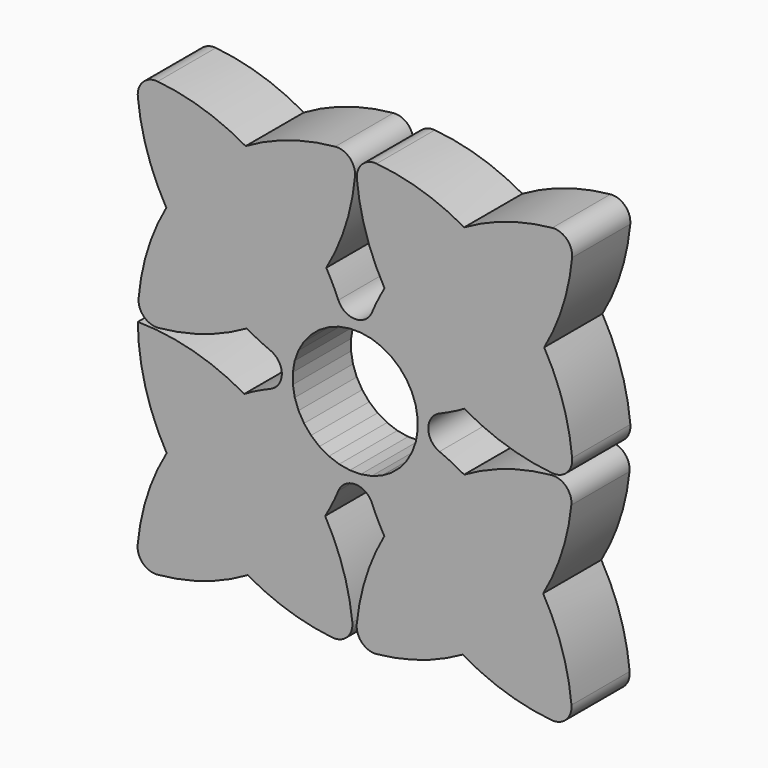
from build123d import *

# Parameters (mm, degrees)
F1_DEPTH = 25.4


with BuildPart() as f1:
    # F0 (on Front) → F1 (new body)
    with BuildSketch(Plane.XZ):
        with BuildLine():
            ThreePointArc((-5.8723054883, -29.3974713107), (-0.0113045982, -25.4959433684), (5.8471949357, -29.4012263195))
            ThreePointArc((5.8471949357, -29.4012263195), (7.8665830511, -33.8356885101), (10.1664885318, -38.131362853))
            ThreePointArc((10.1664885318, -38.131362853), (22.2433688947, -22.2960530681), (38.0304113332, -10.1561450647))
            ThreePointArc((38.0304113332, -10.1561450647), (33.7877497726, -7.8805671775), (29.4089474828, -5.8794369107))
            ThreePointArc((29.4089474828, -5.8794369107), (25.5132673299, -0.0171496036), (29.4195896796, 5.8380516761))
            ThreePointArc((29.4195896796, 5.8380516761), (33.8245563846, 7.8420080033), (38.0926920423, 10.1229268184))
            ThreePointArc((38.0926920423, 10.1229268184), (22.3048159694, 22.2586636554), (10.2296361263, 38.0929041244))
            ThreePointArc((10.2296361263, 38.0929041244), (7.8862120567, 33.7206748888), (5.832770092, 29.2049910031))
            ThreePointArc((5.832770092, 29.2049910031), (-0.0278322356, 25.2936581115), (-5.8914533675, 29.2004639491))
            ThreePointArc((-5.8914533675, 29.2004639491), (-7.8681260767, 33.5542655176), (-10.1128070971, 37.7761407186))
            ThreePointArc((-10.1128070971, 37.7761407186), (-22.1909246105, 22.1248469042), (-37.8860679576, 10.1037655868))
            ThreePointArc((-37.8860679576, 10.1037655868), (-33.7659122536, 7.9077693057), (-29.519257568, 5.9676644959))
            ThreePointArc((-29.519257568, 5.9676644959), (-25.6301816612, 0.0965438971), (-29.5513078142, -5.7532200459))
            ThreePointArc((-29.5513078142, -5.7532200459), (-34.2211473212, -7.8745098641), (-38.736597903, -10.3071992315))
            ThreePointArc((-38.736597903, -10.3071992315), (-22.7195783494, -22.5870715801), (-10.5053141935, -38.6541787064))
            ThreePointArc((-10.5053141935, -38.6541787064), (-8.0309058523, -34.1048564095), (-5.8723054883, -29.3974713107))
        make_face()
        Polygon((15.4941124372, -15.4270198163), (12.5798481763, -17.8831731103), (9.2833515942, -19.7959552386), (5.7047850715, -21.1072472842), (1.9528815413, -21.7772063019), (-1.8583593065, -21.7854759259), (-5.613134847, -21.1318048879), (-9.1973581256, -19.8360546515), (-12.5021243317, -17.9375959321), (-15.4270198163, -15.4941124372), (-17.8831731103, -12.5798481763), (-19.7959552386, -9.2833515942), (-21.1072472842, -5.7047850715), (-21.7772063019, -1.9528815413), (-21.7854759259, 1.8583593065), (-21.1318048879, 5.613134847), (-19.8360546515, 9.1973581256), (-17.9375959321, 12.5021243317), (-15.4941124372, 15.4270198163), (-12.5798481763, 17.8831731103), (-9.2833515942, 19.7959552386), (-5.7047850715, 21.1072472842), (-1.9528815413, 21.7772063019), (1.8583593065, 21.7854759259), (5.613134847, 21.1318048879), (9.1973581256, 19.8360546515), (12.5021243317, 17.9375959321), (15.4270198163, 15.4941124372), (17.8831731103, 12.5798481763), (19.7959552386, 9.2833515942), (21.1072472842, 5.7047850715), (21.7772063019, 1.9528815413), (21.7854759259, -1.8583593065), (21.1318048879, -5.613134847), (19.8360546515, -9.1973581256), (17.9375959321, -12.5021243317), align=None, mode=Mode.SUBTRACT)
        with BuildLine():
            ThreePointArc((38.0304113332, -10.1561450647), (22.2433688947, -22.2960530681), (10.1664885318, -38.131362853))
            ThreePointArc((10.1664885318, -38.131362853), (22.0522532258, -53.6697738876), (37.5164127114, -65.6519853381))
            ThreePointArc((37.5164127114, -65.6519853381), (53.4213887804, -53.5472360443), (65.6235914885, -37.7169022421))
            ThreePointArc((65.6235914885, -37.7169022421), (53.6333778688, -22.1280221412), (38.0304113332, -10.1561450647))
        make_face()
        with BuildLine():
            ThreePointArc((37.5164127114, -65.6519853381), (22.0522532258, -53.6697738876), (10.1664885318, -38.131362853))
            ThreePointArc((10.1664885318, -38.131362853), (3.7508996959, -52.7209861968), (0.5304546679, -68.3301381035))
            ThreePointArc((0.5304546679, -68.3301381035), (2.3669091486, -73.4489662261), (7.4915009075, -75.2692754617))
            ThreePointArc((7.4915009075, -75.2692754617), (23.0077646864, -72.0335045543), (37.5164127114, -65.6519853381))
        make_face()
        with BuildLine():
            ThreePointArc((65.6235914885, -37.7169022421), (53.4213887804, -53.5472360443), (37.5164127114, -65.6519853381))
            ThreePointArc((37.5164127114, -65.6519853381), (52.5012422767, -72.3700363612), (68.5807077231, -75.7059196936))
            ThreePointArc((68.5807077231, -75.7059196936), (73.6678671005, -73.8876561642), (75.5140176195, -68.8105505857))
            ThreePointArc((75.5140176195, -68.8105505857), (72.2649671763, -52.7242023626), (65.6235914885, -37.7169022421))
        make_face()
        with BuildLine():
            ThreePointArc((68.5341561345, -0.3654146815), (52.7586923315, -3.6294921253), (38.0304113332, -10.1561450647))
            ThreePointArc((38.0304113332, -10.1561450647), (53.6333778688, -22.1280221412), (65.6235914885, -37.7169022421))
            ThreePointArc((65.6235914885, -37.7169022421), (72.1596460359, -23.0463732384), (75.4693013087, -7.3304382592))
            ThreePointArc((75.4693013087, -7.3304382592), (73.6519305037, -2.2048036873), (68.5341561345, -0.3654146815))
        make_face()
        with BuildLine():
            ThreePointArc((-1.0124612587, -68.2357638288), (-4.2291126973, -52.9540601379), (-10.5053141935, -38.6541787064))
            ThreePointArc((-10.5053141935, -38.6541787064), (-22.2999024948, -53.8714051532), (-37.5422616312, -65.6334960339))
            ThreePointArc((-37.5422616312, -65.6334960339), (-23.2716891442, -71.9418906098), (-8.0151108309, -75.2102081286))
            ThreePointArc((-8.0151108309, -75.2102081286), (-2.846828708, -73.396684639), (-1.0124612587, -68.2357638288))
        make_face()
        with BuildLine():
            ThreePointArc((-37.5422616312, -65.6334960339), (-22.2999024948, -53.8714051532), (-10.5053141935, -38.6541787064))
            ThreePointArc((-10.5053141935, -38.6541787064), (-22.7195783494, -22.5870715801), (-38.736597903, -10.3071992315))
            ThreePointArc((-38.736597903, -10.3071992315), (-54.0397274181, -22.0854974937), (-65.8642633829, -37.35292793))
            ThreePointArc((-65.8642633829, -37.35292793), (-53.5939421159, -53.3866616113), (-37.5422616312, -65.6334960339))
        make_face()
        with BuildLine():
            ThreePointArc((-69.0824706786, -75.7464577386), (-52.7543029668, -72.4304590644), (-37.5422616312, -65.6334960339))
            ThreePointArc((-37.5422616312, -65.6334960339), (-53.5939421159, -53.3866616113), (-65.8642633829, -37.35292793))
            ThreePointArc((-65.8642633829, -37.35292793), (-72.6638709017, -52.5414311261), (-75.9800079654, -68.8487462552))
            ThreePointArc((-75.9800079654, -68.8487462552), (-74.1461583123, -73.9124802036), (-69.0824706786, -75.7464577386))
        make_face()
        with BuildLine():
            ThreePointArc((-65.8642633829, -37.35292793), (-54.0397274181, -22.0854974937), (-38.736597903, -10.3071992315))
            ThreePointArc((-38.736597903, -10.3071992315), (-56.6892276099, -2.8775463892), (-75.9399100658, -0.249261829))
            ThreePointArc((-75.9399100658, -0.249261829), (-73.2815706098, -19.4472531015), (-65.8642633829, -37.35292793))
        make_face()
        with BuildLine():
            ThreePointArc((10.2296361263, 38.0929041244), (22.3048159694, 22.2586636554), (38.0926920423, 10.1229268184))
            ThreePointArc((38.0926920423, 10.1229268184), (53.8901327799, 22.2426205771), (65.98720102, 38.0573937547))
            ThreePointArc((65.98720102, 38.0573937547), (53.8722995346, 53.8263794302), (38.0568216949, 65.8805242749))
            ThreePointArc((38.0568216949, 65.8805242749), (22.3163343559, 53.8162099791), (10.2296361263, 38.0929041244))
        make_face()
        with BuildLine():
            ThreePointArc((65.98720102, 38.0573937547), (53.8901327799, 22.2426205771), (38.0926920423, 10.1229268184))
            ThreePointArc((38.0926920423, 10.1229268184), (52.9360390158, 3.5663420182), (68.8360344261, 0.3253700086))
            ThreePointArc((68.8360344261, 0.3253700086), (73.9131252899, 2.1506004529), (75.7537769417, 7.2221208671))
            ThreePointArc((75.7537769417, 7.2221208671), (72.5431064158, 23.169531937), (65.98720102, 38.0573937547))
        make_face()
        with BuildLine():
            ThreePointArc((38.0568216949, 65.8805242749), (53.8722995346, 53.8263794302), (65.98720102, 38.0573937547))
            ThreePointArc((65.98720102, 38.0573937547), (72.5131078913, 52.9048408511), (75.7315907831, 68.8006111581))
            ThreePointArc((75.7315907831, 68.8006111581), (73.892228478, 73.884618477), (68.8027604139, 75.7088166387))
            ThreePointArc((68.8027604139, 75.7088166387), (52.9024303983, 72.4444177186), (38.0568216949, 65.8805242749))
        make_face()
        with BuildLine():
            ThreePointArc((0.5764462826, 68.5849581522), (3.7735517842, 52.8230665558), (10.2296361263, 38.0929041244))
            ThreePointArc((10.2296361263, 38.0929041244), (22.3163343559, 53.8162099791), (38.0568216949, 65.8805242749))
            ThreePointArc((38.0568216949, 65.8805242749), (23.2822699561, 72.3357001965), (7.473197141, 75.5027006678))
            ThreePointArc((7.473197141, 75.5027006678), (2.4016767268, 73.662049016), (0.5764462826, 68.5849581522))
        make_face()
        with BuildLine():
            ThreePointArc((-68.7189010029, 0.2348885395), (-52.7728201927, 3.5145237384), (-37.8860679576, 10.1037655868))
            ThreePointArc((-37.8860679576, 10.1037655868), (-53.780428185, 22.2248734645), (-65.9847602554, 38.0554205788))
            ThreePointArc((-65.9847602554, 38.0554205788), (-72.4904161681, 23.1055098819), (-75.6526730835, 7.1110258359))
            ThreePointArc((-75.6526730835, 7.1110258359), (-73.79835158, 2.0468763691), (-68.7189010029, 0.2348885395))
        make_face()
        with BuildLine():
            ThreePointArc((-65.9847602554, 38.0554205788), (-53.780428185, 22.2248734645), (-37.8860679576, 10.1037655868))
            ThreePointArc((-37.8860679576, 10.1037655868), (-22.1909246105, 22.1248469042), (-10.1128070971, 37.7761407186))
            ThreePointArc((-10.1128070971, 37.7761407186), (-22.3186885042, 53.7740285117), (-38.2722920555, 66.0377346602))
            ThreePointArc((-38.2722920555, 66.0377346602), (-53.9753237868, 53.8755657611), (-65.9847602554, 38.0554205788))
        make_face()
        with BuildLine():
            ThreePointArc((-75.9311179626, 68.9827924054), (-72.6216588957, 52.9840480262), (-65.9847602554, 38.0554205788))
            ThreePointArc((-65.9847602554, 38.0554205788), (-53.9753237868, 53.8755657611), (-38.2722920555, 66.0377346602))
            ThreePointArc((-38.2722920555, 66.0377346602), (-53.1019338593, 72.6132353792), (-68.9843197188, 75.9155535265))
            ThreePointArc((-68.9843197188, 75.9155535265), (-74.0964323111, 74.0912044249), (-75.9311179626, 68.9827924054))
        make_face()
        with BuildLine():
            ThreePointArc((-38.2722920555, 66.0377346602), (-22.3186885042, 53.7740285117), (-10.1128070971, 37.7761407186))
            ThreePointArc((-10.1128070971, 37.7761407186), (-3.3821811813, 52.9097624233), (-0.077326994, 69.1395427644))
            ThreePointArc((-0.077326994, 69.1395427644), (-1.9087320963, 74.2120247418), (-6.9799378863, 76.0469606796))
            ThreePointArc((-6.9799378863, 76.0469606796), (-23.1742648581, 72.7560566396), (-38.2722920555, 66.0377346602))
        make_face()
    extrude(amount=F1_DEPTH)


solid = f1.part
